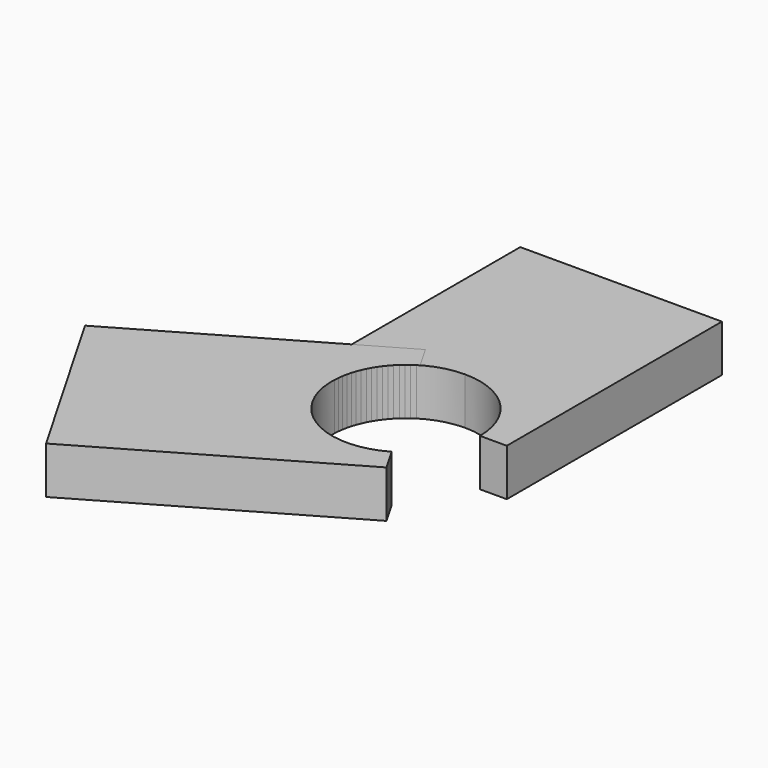
from build123d import *

# Parameters (mm, degrees)
F1_DEPTH = 7
F3_ANGLE = 120


with BuildPart() as f1:
    # F0 (on Top) → F1 (new body)
    with BuildSketch(Plane.XY):
        with BuildLine():
            ThreePointArc((-11, 0), (-7.778175, 7.778175), (0, 11))
            Line((0, 11), (0, 40))
            Line((0, 40), (-15, 40))
            Line((-15, 40), (-15, 0))
            Line((-15, 0), (-11, 0))
        make_face()
        with BuildLine():
            ThreePointArc((0, 11), (7.778175, 7.778175), (11, 0))
            Line((11, 0), (15, 0))
            Line((15, 0), (15, 40))
            Line((15, 40), (0, 40))
            Line((0, 40), (0, 11))
        make_face()
    extrude(amount=F1_DEPTH)


with BuildPart() as f3_1:
    # F3: copy of F1
    add(f1.part.rotate(Axis((0, 0, 21.435359), (0, 0, 1)), F3_ANGLE))


solid = Compound([f1.part, f3_1.part])
